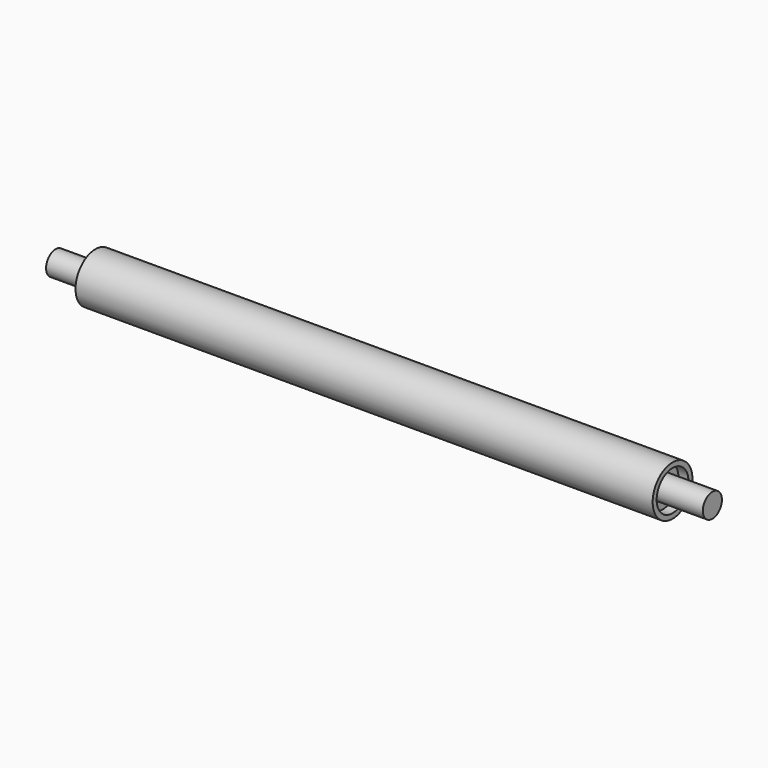
from build123d import *

# Parameters (mm, degrees)
SKETCH_R     = 12.5
PAD_DEPTH    = 145
SKETCH001_R  = 10
POCKET_DEPTH = 5
SKETCH002_R  = 6
PAD001_DEPTH = 25


with BuildPart() as part:
    # Sketch → Pad (new body, symmetric)
    with BuildSketch(Plane.YZ):
        Circle(SKETCH_R)
    extrude(amount=PAD_DEPTH, both=True)

    # Sketch001 (on Face3 of Pad) → Pocket (cut)
    with BuildSketch(Plane.YZ.offset(145)):
        Circle(SKETCH001_R)
    pocket = extrude(amount=-POCKET_DEPTH, mode=Mode.SUBTRACT)

    # Sketch002 (on Face5 of Pocket) → Pad001 (join)
    with BuildSketch(Plane.YZ.offset(140)):
        Circle(SKETCH002_R)
    pad001 = extrude(amount=PAD001_DEPTH)

    # Mirrored: Pocket, Pad001 across YZ
    add(pocket.mirror(Plane.YZ), mode=Mode.SUBTRACT)
    add(pad001.mirror(Plane.YZ))


solid = part.part
